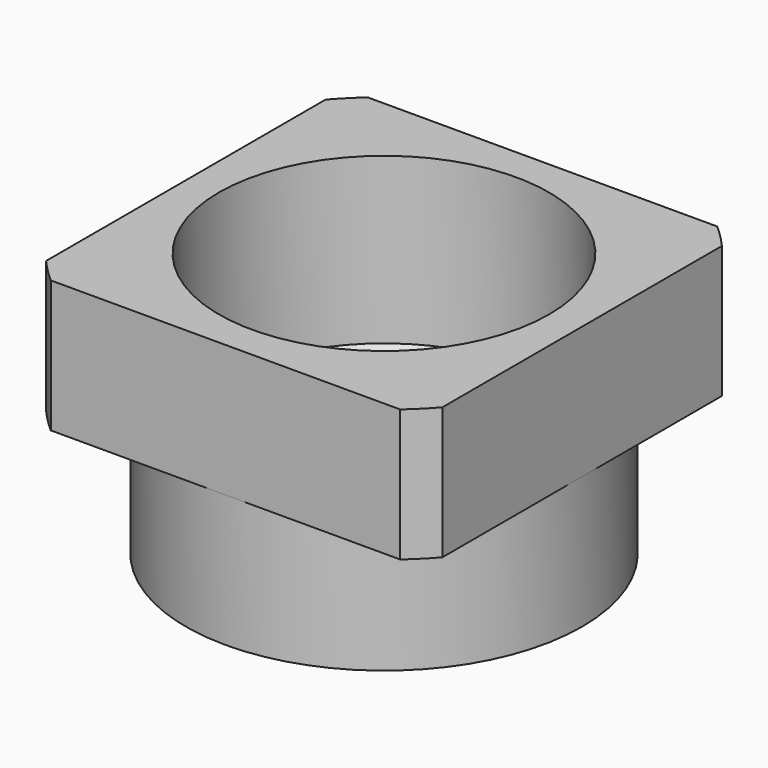
from build123d import *

# Parameters (mm, degrees)
F0_R     = 3
F1_DEPTH = 2
F2_R     = 4
F3_DEPTH = 2
F5_W     = 6
F5_H     = 6
F6_DEPTH = 25
F7_D     = 5
F7_DEPTH = 2.5
F7_TIP   = 1.5021515476


with BuildPart() as f1:
    # F0 (on Top) → F1 (new body)
    with BuildSketch(Plane.XY):
        Circle(F0_R)
    extrude(amount=F1_DEPTH)

    # F2 (on face) → F3 (join)
    with BuildSketch(Plane.XY.offset(2)):
        Circle(F2_R)
    extrude(amount=F3_DEPTH)

    # F5 (on face) → F6 (intersect)
    with BuildSketch(Plane.XY.offset(4)):
        Rectangle(F5_W, F5_H)
    extrude(amount=-F6_DEPTH, mode=Mode.INTERSECT)

    # F7
    with Locations(Plane.XY.offset(4)):
        with Locations((0, 0)):
            Hole(F7_D / 2, depth=F7_DEPTH)
            with Locations((0, 0, -(F7_DEPTH + F7_TIP / 2))):  # 118° drill point
                Cone(0, F7_D / 2, F7_TIP, mode=Mode.SUBTRACT)


solid = f1.part
